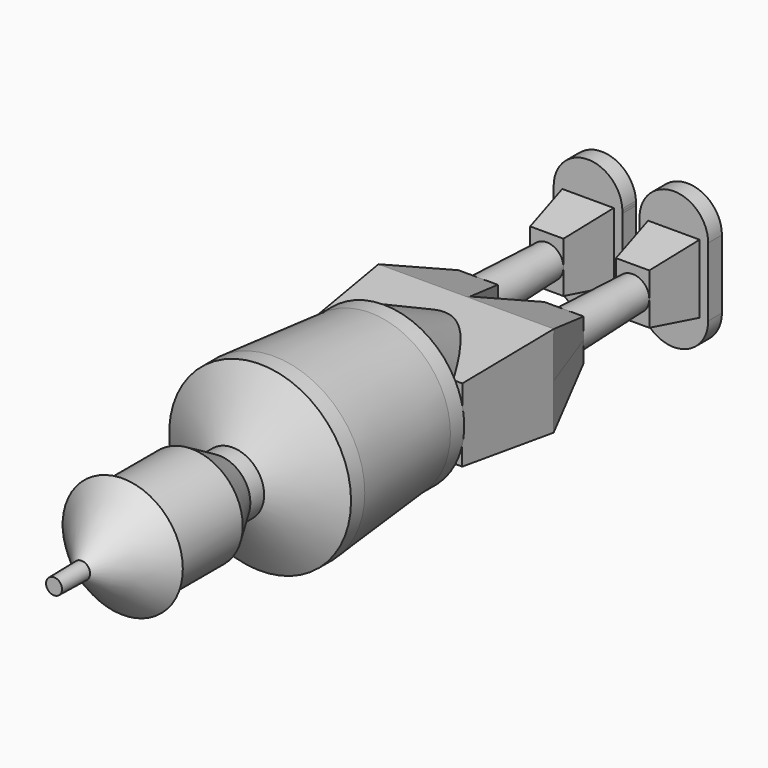
from build123d import *

# Parameters (mm, degrees)
F1_DEPTH   = 6.35
F3_DEPTH   = 19.05
F3_TAPER   = 10
F4_R       = 6.1659710175
F5_DEPTH   = 31.75
F5_TAPER   = -2
F7_DEPTH   = 25.4
F7_TAPER   = -20
F9_DEPTH   = 38.1
F9_TAPER   = 5
F11_DEPTH  = 38.1
F11_TAPER  = 25
F12_R      = 29.7610911
F13_DEPTH  = 6.35
F13_FACE_R = 29.7610911
F14_DEPTH  = 44.45
F14_TAPER  = -5
F15_DEPTH  = 6.35
F15_FACE_R = 33.6499621937
F16_DEPTH  = 12.7
F16_TAPER  = 60
F17_DEPTH  = 6.35
F17_FACE_R = 11.6529169376
F18_DEPTH  = 12.7
F18_TAPER  = -30
F19_DEPTH  = 31.75
F20_R      = 22.225
F21_DEPTH  = 19.05
F21_TAPER  = 45
F21_FACE_R = 3.175
F22_DEPTH  = 12.7
F22_TAPER  = 1


with BuildPart() as f1:
    # F0 (on Front) → F1 (new body)
    with BuildSketch(Plane.XZ):
        with BuildLine():
            ThreePointArc((3.199654923, 13.4909659788), (3.175, 12.7), (3.199654923, 11.9090340212))
            Line((3.199654923, 11.9090340212), (3.199654923, 13.4909659788))
        make_face()
        with BuildLine():
            Line((15.362857355, 0), (3.199654923, 0))
            Line((3.199654923, 0), (3.199654923, -11.8987034381))
            ThreePointArc((3.199654923, -11.8987034381), (6.9939953282, -3.6112468657), (15.362857355, 0))
        make_face()
        with BuildLine():
            ThreePointArc((16.2371763723, 0.0051652915), (24.9824046777, -3.8383881517), (28.575, -12.6896694169))
            Line((28.575, -12.6896694169), (28.575, 12.7))
            ThreePointArc((28.575, 12.7), (24.9824046777, 3.8487187348), (16.2371763723, 0.0051652915))
        make_face()
        with BuildLine():
            Line((3.199654923, 11.9090340212), (3.199654923, 0))
            Line((3.199654923, 0), (15.362857355, 0))
            ThreePointArc((15.362857355, 0), (15.4378328626, 0.0028041361), (15.5128236277, 0.0051652915))
            ThreePointArc((15.5128236277, 0.0051652915), (7.0477827676, 3.5692696934), (3.199654923, 11.9090340212))
        make_face()
        with BuildLine():
            Line((15.875, 0), (15.362857355, 0))
            ThreePointArc((15.362857355, 0), (6.9939953282, -3.6112468657), (3.199654923, -11.8987034381))
            ThreePointArc((3.199654923, -11.8987034381), (15.4793249297, -25.3835041897), (28.575, -12.6896694169))
            ThreePointArc((28.575, -12.6896694169), (24.9824046777, -3.8383881517), (16.2371763723, 0.0051652915))
            ThreePointArc((16.2371763723, 0.0051652915), (16.0561066018, 0.0012913885), (15.875, 0))
        make_face()
        with BuildLine():
            Line((3.199654923, 13.4909659788), (3.199654923, 11.9090340212))
            ThreePointArc((3.199654923, 11.9090340212), (7.0477827676, 3.5692696934), (15.5128236277, 0.0051652915))
            ThreePointArc((15.5128236277, 0.0051652915), (15.6938933982, 0.0090391945), (15.875, 0.0103305831))
            ThreePointArc((15.875, 0.0103305831), (16.0561066018, 0.0090391945), (16.2371763723, 0.0051652915))
            ThreePointArc((16.2371763723, 0.0051652915), (24.9824046777, 3.8487187348), (28.575, 12.7))
            ThreePointArc((28.575, 12.7), (16.2706750703, 25.3938347728), (3.199654923, 13.4909659788))
        make_face()
    extrude(amount=F1_DEPTH)

    # F2 (on face) → F3, piece 2 (join)
    with BuildSketch(Plane.XZ.offset(6.35)):
        Polygon((15.875, -12.6896694169), (25.4, -12.6896694169), (25.4, 12.7103305831), (6.35, 12.7103305831), (6.35, -12.6896694169), align=None)
    extrude(amount=F3_DEPTH, taper=F3_TAPER)

    # F4 (on face) → F5, piece 2 (join)
    with BuildSketch(Plane.XZ.offset(25.4)):
        with Locations((15.875, 0.0103305831)):
            Circle(F4_R)
    extrude(amount=F5_DEPTH, taper=F5_TAPER)



with BuildPart() as f1b:
    # F0 (on Front) → F1, piece 2 (new body)
    with BuildSketch(Plane.XZ):
        with BuildLine():
            Line((-3.199654923, 13.4909659788), (-3.199654923, 11.9090340212))
            ThreePointArc((-3.199654923, 11.9090340212), (-3.1811652272, 12.3043249297), (-3.175, 12.7))
            ThreePointArc((-3.175, 12.7), (-3.1811652272, 13.0956750703), (-3.199654923, 13.4909659788))
        make_face()
        with BuildLine():
            ThreePointArc((-15.5128236277, 0.0051652915), (-7.0477827676, -3.5589391103), (-3.199654923, -11.8987034381))
            Line((-3.199654923, -11.8987034381), (-3.199654923, 11.9090340212))
            ThreePointArc((-3.199654923, 11.9090340212), (-7.0477827676, 3.5692696934), (-15.5128236277, 0.0051652915))
        make_face()
        with BuildLine():
            ThreePointArc((-16.2371763723, 0.0051652915), (-15.875, 0.0103305831), (-15.5128236277, 0.0051652915))
            ThreePointArc((-15.5128236277, 0.0051652915), (-7.0477827676, 3.5692696934), (-3.199654923, 11.9090340212))
            Line((-3.199654923, 11.9090340212), (-3.199654923, 13.4909659788))
            ThreePointArc((-3.199654923, 13.4909659788), (-16.2706750703, 25.3938347728), (-28.575, 12.7))
            ThreePointArc((-28.575, 12.7), (-24.9824046777, 3.8487187348), (-16.2371763723, 0.0051652915))
        make_face()
        with BuildLine():
            ThreePointArc((-28.575, -12.6896694169), (-15.875, -25.3896694169), (-3.175, -12.6896694169))
            ThreePointArc((-3.175, -12.6896694169), (-3.1811652272, -12.2939943467), (-3.199654923, -11.8987034381))
            ThreePointArc((-3.199654923, -11.8987034381), (-7.0477827676, -3.5589391103), (-15.5128236277, 0.0051652915))
            ThreePointArc((-15.5128236277, 0.0051652915), (-15.875, 0), (-16.2371763723, 0.0051652915))
            ThreePointArc((-16.2371763723, 0.0051652915), (-24.9824046777, -3.8383881517), (-28.575, -12.6896694169))
        make_face()
        with BuildLine():
            Line((-28.575, 12.7), (-28.575, -12.6896694169))
            ThreePointArc((-28.575, -12.6896694169), (-24.9824046777, -3.8383881517), (-16.2371763723, 0.0051652915))
            ThreePointArc((-16.2371763723, 0.0051652915), (-24.9824046777, 3.8487187348), (-28.575, 12.7))
        make_face()
    extrude(amount=F1_DEPTH)

    # F2 (on face) → F3 (join)
    with BuildSketch(Plane.XZ.offset(6.35)):
        Polygon((-25.4, -12.6896694169), (-15.875, -12.6896694169), (-6.35, -12.6896694169), (-6.35, 12.7103305831), (-25.4, 12.7103305831), align=None)
    extrude(amount=F3_DEPTH, taper=F3_TAPER)

    # F4 (on face) → F5 (join)
    with BuildSketch(Plane.XZ.offset(25.4)):
        with Locations((-15.875, 0.0103305831)):
            Circle(F4_R)
    extrude(amount=F5_DEPTH, taper=F5_TAPER)


with BuildPart() as f1_1:
    add(f1.part)

    add(f1b.part)  # F7 merges F1b
    # F6 (on face) → F7 (join)
    with BuildSketch(Plane.XZ.offset(57.15)):
        Polygon((-8.6003018862, -7.5993465171), (-8.6003018862, 0), (-8.5894809611, 7.6199923168), (-23.1605484229, 7.6406842576), (-23.1496981138, 0), (-23.1388771887, -7.6199923168), align=None)
        Polygon((8.5894809611, 7.6199923168), (8.6003018862, 0), (8.6003018862, -7.5993465171), (23.1388771887, -7.6199923168), (23.1496981138, 0), (23.1605484229, 7.6406842576), align=None)
    extrude(amount=F7_DEPTH, taper=F7_TAPER)

    # F8 (on face) → F9 (join)
    with BuildSketch(Plane.XZ.offset(82.55)):
        Polygon((32.4185487065, 16.8986845412), (-32.4185487065, 16.8986845412), (-32.370583502, -16.8779552611), (32.370583502, -16.8779552611), align=None)
    extrude(amount=F9_DEPTH, taper=F9_TAPER)

    # F10 (on face) → F11 (join)
    with BuildSketch(Plane.XZ.offset(120.65)):
        with BuildLine():
            ThreePointArc((25.711790805, -13.5446371807), (28.2114240531, -6.9763124682), (29.061200642, 0))
            ThreePointArc((29.061200642, 0), (28.2086089518, 6.9876865813), (25.7008602101, 13.5653664608))
            Line((25.7008602101, 13.5653664608), (-25.7008602101, 13.5653664608))
            ThreePointArc((-25.7008602101, 13.5653664608), (-28.2135633586, 6.9676556579), (-29.0611713394, -0.0412690571))
            ThreePointArc((-29.0611713394, -0.0412690571), (-28.2064635002, -6.9963418704), (-25.711790805, -13.5446371807))
            Line((-25.711790805, -13.5446371807), (25.711790805, -13.5446371807))
        make_face()
        with BuildLine():
            ThreePointArc((-25.711790805, -13.5446371807), (0, -29.061200642), (25.711790805, -13.5446371807))
            Line((25.711790805, -13.5446371807), (-25.711790805, -13.5446371807))
        make_face()
        with BuildLine():
            ThreePointArc((25.711790805, -13.5446371807), (28.2114240531, -6.9763124682), (29.061200642, 0))
            ThreePointArc((29.061200642, 0), (28.2086089518, 6.9876865813), (25.7008602101, 13.5653664608))
            Line((25.7008602101, 13.5653664608), (-25.7008602101, 13.5653664608))
            ThreePointArc((-25.7008602101, 13.5653664608), (-28.2135633586, 6.9676556579), (-29.0611713394, -0.0412690571))
            ThreePointArc((-29.0611713394, -0.0412690571), (-28.2064635002, -6.9963418704), (-25.711790805, -13.5446371807))
            Line((-25.711790805, -13.5446371807), (25.711790805, -13.5446371807))
        make_face()
        with BuildLine():
            Line((-25.7008602101, 13.5653664608), (25.7008602101, 13.5653664608))
            ThreePointArc((25.7008602101, 13.5653664608), (0, 29.061200642), (-25.7008602101, 13.5653664608))
        make_face()
    extrude(amount=-F11_DEPTH, taper=F11_TAPER)

    # F12 (on face) → F13 (join)
    with BuildSketch(Plane.XZ.offset(120.65)):
        Circle(F12_R)
    extrude(amount=F13_DEPTH)

    # F13_face (on face) → F14 (join)
    with BuildSketch(Plane.XZ.offset(127)):
        Circle(F13_FACE_R)
    extrude(amount=F14_DEPTH, taper=F14_TAPER)

    # F15 (add): a face of the model
    f15_faces = [f1_1.faces().sort_by_distance(p)[0] for p in [
        (0, -171.45, 0),
    ]]
    extrude(f15_faces, amount=F15_DEPTH)

    # F15_face (on face) → F16 (join)
    with BuildSketch(Plane.XZ.offset(177.8)):
        Circle(F15_FACE_R)
    extrude(amount=F16_DEPTH, taper=F16_TAPER)

    # F17 (add): a face of the model
    f17_faces = [f1_1.faces().sort_by_distance(p)[0] for p in [
        (0, -190.5, 0),
    ]]
    extrude(f17_faces, amount=F17_DEPTH)

    # F17_face (on face) → F18 (join)
    with BuildSketch(Plane.XZ.offset(196.85)):
        Circle(F17_FACE_R)
    extrude(amount=F18_DEPTH, taper=F18_TAPER)

    # F19 (add): a face of the model
    f19_faces = [f1_1.faces().sort_by_distance(p)[0] for p in [
        (0, -209.55, 0),
    ]]
    extrude(f19_faces, amount=F19_DEPTH)

    # F20 (on face) → F21 (join)
    with BuildSketch(Plane.XZ.offset(241.3)):
        Circle(F20_R)
    extrude(amount=F21_DEPTH, taper=F21_TAPER)

    # F21_face (on face) → F22 (join)
    with BuildSketch(Plane.XZ.offset(260.35)):
        Circle(F21_FACE_R)
    extrude(amount=F22_DEPTH, taper=F22_TAPER)


solid = f1_1.part
